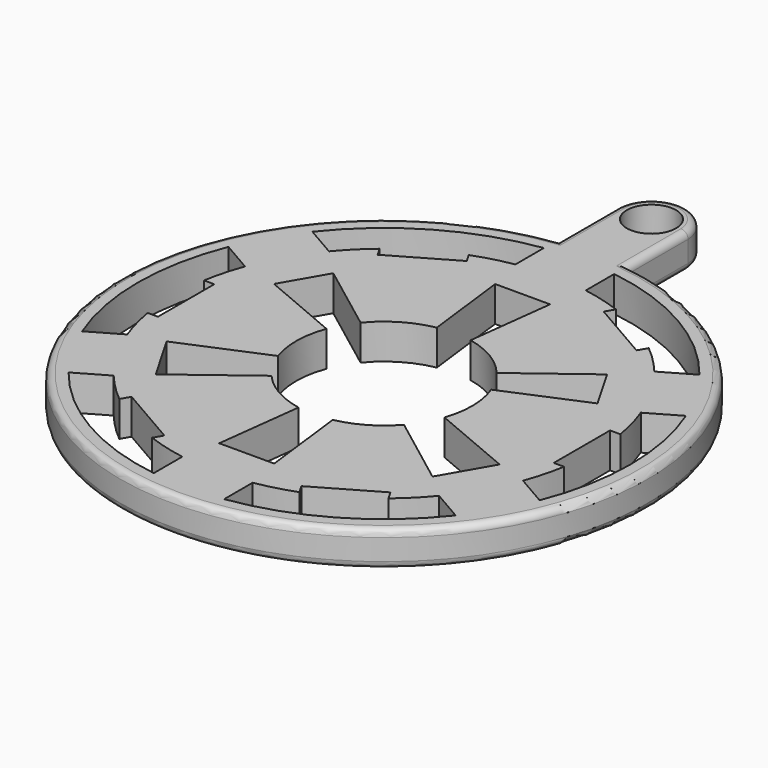
from build123d import *

# Parameters (mm, degrees)
F1_DEPTH = 5
F0_R     = 3.5
F2_DEPTH = 5
F3_R     = 1


with BuildPart() as f1:
    # F0 (on Top) → F1 (new body)
    with BuildSketch(Plane.XY):
        with BuildLine():
            ThreePointArc((-4.988375268, 37.1667339456), (-24.6899364868, -28.2251135742), (37.5, 0))
            ThreePointArc((37.5, 0), (28.2251135742, 24.6899364868), (4.988375268, 37.1667339456))
            ThreePointArc((4.988375268, 37.1667339456), (0, 37.5), (-4.988375268, 37.1667339456))
        make_face()
        with BuildLine():
            Line((-5, -29.5803989155), (-5, -30))
            Line((-5, -30), (-5, -34.6410161514))
            ThreePointArc((-5, -34.6410161514), (-17.5, -30.3108891325), (-27.5, -21.6506350946))
            Line((-27.5, -21.6506350946), (-23.1173769149, -19.1203264767))
            ThreePointArc((-23.1173769149, -19.1203264767), (-21.2132034356, -21.2132034356), (-19.1203264767, -23.1173769149))
            Line((-19.1203264767, -23.1173769149), (-18.3888154764, -21.8503626961))
            Line((-18.3888154764, -21.8503626961), (-9.7285614385, -26.8503626961))
            Line((-9.7285614385, -26.8503626961), (-10.4600724388, -28.1173769149))
            ThreePointArc((-10.4600724388, -28.1173769149), (-7.7645713531, -28.9777747887), (-5, -29.5803989155))
        make_face(mode=Mode.SUBTRACT)
        with BuildLine():
            ThreePointArc((-32.5, -12.9903810568), (-35, 0), (-32.5, 12.9903810568))
            Line((-32.5, 12.9903810568), (-28.1173769149, 10.4600724388))
            ThreePointArc((-28.1173769149, 10.4600724388), (-28.9777747887, 7.7645713531), (-29.5803989155, 5))
            Line((-29.5803989155, 5), (-28.1173769149, 5))
            Line((-28.1173769149, 5), (-28.1173769149, -5))
            Line((-28.1173769149, -5), (-29.5803989155, -5))
            ThreePointArc((-29.5803989155, -5), (-28.9777747887, -7.7645713531), (-28.1173769149, -10.4600724388))
            Line((-28.1173769149, -10.4600724388), (-32.5, -12.9903810568))
        make_face(mode=Mode.SUBTRACT)
        with BuildLine():
            Line((5, -30), (5, -29.5803989155))
            ThreePointArc((5, -29.5803989155), (7.7645713531, -28.9777747887), (10.4600724388, -28.1173769149))
            Line((10.4600724388, -28.1173769149), (9.7285614385, -26.8503626961))
            Line((9.7285614385, -26.8503626961), (18.3888154764, -21.8503626961))
            Line((18.3888154764, -21.8503626961), (19.1203264767, -23.1173769149))
            ThreePointArc((19.1203264767, -23.1173769149), (21.2132034356, -21.2132034356), (23.1173769149, -19.1203264767))
            Line((23.1173769149, -19.1203264767), (27.5, -21.6506350946))
            ThreePointArc((27.5, -21.6506350946), (17.5, -30.3108891325), (5, -34.6410161514))
            Line((5, -34.6410161514), (5, -30))
        make_face(mode=Mode.SUBTRACT)
        with BuildLine():
            ThreePointArc((-9.6656079434, 7.926286841), (-6.3749366407, 10.7522175772), (-2.3166453596, 12.2834504223))
            Line((-2.3166453596, 12.2834504223), (-3.8166453596, 24.5))
            Line((-3.8166453596, 24.5), (4, 24.5))
            Line((4, 24.5), (2.5, 12.2474487139))
            ThreePointArc((2.5, 12.2474487139), (6.4551230926, 10.7042695154), (9.6656079434, 7.926286841))
            Line((9.6656079434, 7.926286841), (19.4529138373, 15.3065648785))
            Line((19.4529138373, 15.3065648785), (22.9823309481, 9.1934351215))
            Line((22.9823309481, 9.1934351215), (11.6971697336, 4.4075186015))
            ThreePointArc((11.6971697336, 4.4075186015), (12.4985113757, 0.1929077306), (11.827620909, -4.0444262427))
            Line((11.827620909, -4.0444262427), (23.6581671568, -9.040247023))
            Line((23.6581671568, -9.040247023), (19.6581671568, -15.9684502533))
            Line((19.6581671568, -15.9684502533), (9.4163863244, -8.2208070522))
            ThreePointArc((9.4163863244, -8.2208070522), (6.2891594451, -10.8026141963), (2.5, -12.2474487139))
            Line((2.5, -12.2474487139), (4, -24.5))
            Line((4, -24.5), (-3.8166453596, -24.5))
            Line((-3.8166453596, -24.5), (-2.3166453596, -12.2834504223))
            ThreePointArc((-2.3166453596, -12.2834504223), (-6.2082425785, -10.849319061), (-9.4163863244, -8.2208070522))
            Line((-9.4163863244, -8.2208070522), (-19.6581671568, -15.9684502533))
            Line((-19.6581671568, -15.9684502533), (-23.6581671568, -9.040247023))
            Line((-23.6581671568, -9.040247023), (-11.827620909, -4.0444262427))
            ThreePointArc((-11.827620909, -4.0444262427), (-12.4985113757, 0.1929077306), (-11.6971697336, 4.4075186015))
            Line((-11.6971697336, 4.4075186015), (-22.9823309481, 9.1934351215))
            Line((-22.9823309481, 9.1934351215), (-19.4529138373, 15.3065648785))
            Line((-19.4529138373, 15.3065648785), (-9.6656079434, 7.926286841))
        make_face(mode=Mode.SUBTRACT)
        with BuildLine():
            Line((28.1173769149, 10.4600724388), (32.5, 12.9903810568))
            ThreePointArc((32.5, 12.9903810568), (35, 0), (32.5, -12.9903810568))
            Line((32.5, -12.9903810568), (28.1173769149, -10.4600724388))
            ThreePointArc((28.1173769149, -10.4600724388), (28.9777747887, -7.7645713531), (29.5803989155, -5))
            Line((29.5803989155, -5), (28.1173769149, -5))
            Line((28.1173769149, -5), (28.1173769149, 5))
            Line((28.1173769149, 5), (29.5803989155, 5))
            ThreePointArc((29.5803989155, 5), (28.9777747887, 7.7645713531), (28.1173769149, 10.4600724388))
        make_face(mode=Mode.SUBTRACT)
        with BuildLine():
            Line((-5, 30), (-5, 29.5803989155))
            ThreePointArc((-5, 29.5803989155), (-7.7645713531, 28.9777747887), (-10.4600724388, 28.1173769149))
            Line((-10.4600724388, 28.1173769149), (-9.7285614385, 26.8503626961))
            Line((-9.7285614385, 26.8503626961), (-18.3888154764, 21.8503626961))
            Line((-18.3888154764, 21.8503626961), (-19.1203264767, 23.1173769149))
            ThreePointArc((-19.1203264767, 23.1173769149), (-21.2132034356, 21.2132034356), (-23.1173769149, 19.1203264767))
            Line((-23.1173769149, 19.1203264767), (-27.5, 21.6506350946))
            ThreePointArc((-27.5, 21.6506350946), (-17.5, 30.3108891325), (-5, 34.6410161514))
            Line((-5, 34.6410161514), (-5, 30))
        make_face(mode=Mode.SUBTRACT)
        with BuildLine():
            Line((5, 29.5803989155), (5, 30))
            Line((5, 30), (5, 34.6410161514))
            ThreePointArc((5, 34.6410161514), (17.5, 30.3108891325), (27.5, 21.6506350946))
            Line((27.5, 21.6506350946), (23.1173769149, 19.1203264767))
            ThreePointArc((23.1173769149, 19.1203264767), (21.2132034356, 21.2132034356), (19.1203264767, 23.1173769149))
            Line((19.1203264767, 23.1173769149), (18.3888154764, 21.8503626961))
            Line((18.3888154764, 21.8503626961), (9.7285614385, 26.8503626961))
            Line((9.7285614385, 26.8503626961), (10.4600724388, 28.1173769149))
            ThreePointArc((10.4600724388, 28.1173769149), (7.7645713531, 28.9777747887), (5, 29.5803989155))
        make_face(mode=Mode.SUBTRACT)
    extrude(amount=F1_DEPTH)

    # F0 (on Top) → F2 (join)
    with BuildSketch(Plane.XY):
        with BuildLine():
            ThreePointArc((-4.988375268, 37.1667339456), (0, 37.5), (4.988375268, 37.1667339456))
            Line((4.988375268, 37.1667339456), (4.988375268, 47.2334879431))
            ThreePointArc((4.988375268, 47.2334879431), (0, 42.5045103852), (-4.988375268, 47.2334879431))
            Line((-4.988375268, 47.2334879431), (-4.988375268, 37.1667339456))
        make_face()
        with BuildLine():
            ThreePointArc((-4.988375268, 47.2334879431), (0, 42.5045103852), (4.988375268, 47.2334879431))
            Line((4.988375268, 47.2334879431), (4.988375268, 47.7665120569))
            ThreePointArc((4.988375268, 47.7665120569), (0, 52.4954896148), (-4.988375268, 47.7665120569))
            Line((-4.988375268, 47.7665120569), (-4.988375268, 47.2334879431))
        make_face()
        with Locations((0, 47.5)):
            Circle(F0_R, mode=Mode.SUBTRACT)
    extrude(amount=F2_DEPTH)

    # F3
    f3_edges = [f1.edges().sort_by_distance(p)[0] for p in [
        (4.988375, 42.466623, 0),
        (-4.988375, 42.466623, 0),
        (4.988375, 42.466623, 5),
        (-4.988375, 42.466623, 5),
        (0, 52.49549, 5),
        (0, 52.49549, 0),
        (-24.689936, -28.225114, 0),
        (-24.689936, -28.225114, 5),
    ]]
    fillet(f3_edges, radius=F3_R)


solid = f1.part
